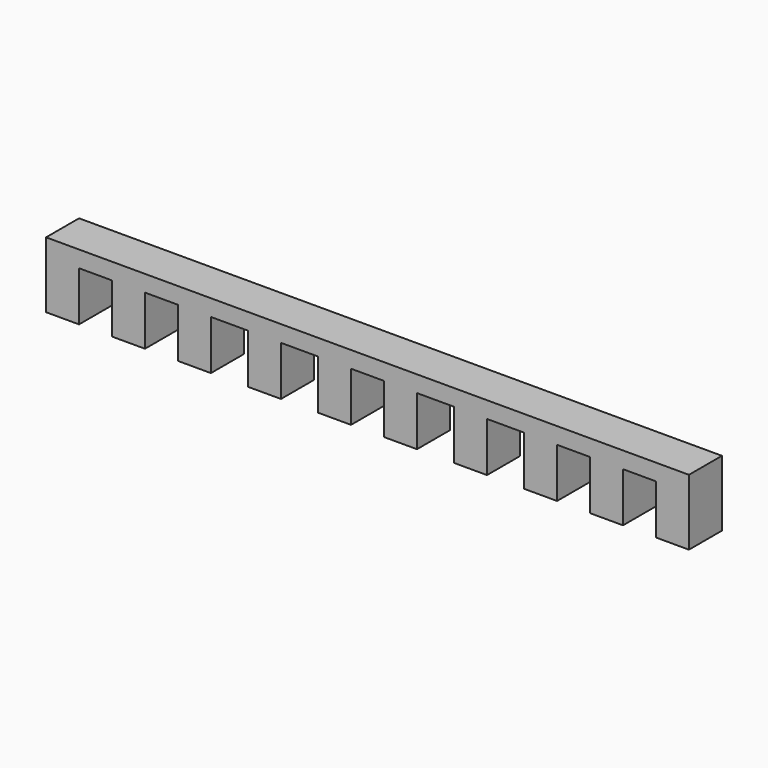
from build123d import *

# Parameters (mm, degrees)
F0_W     = 780
F0_H     = 80
F1_DEPTH = 50
F2_W     = 40
F2_H     = 60
F2_W_2   = 45
F3_DEPTH = 50


with BuildPart() as f1:
    # F0 (on Front) → F1 (new body)
    with BuildSketch(Plane.XZ):
        with Locations((-14.780855, -40)):
            Rectangle(F0_W, F0_H)
    extrude(amount=F1_DEPTH)

    # F2 (on face) → F3 (cut)
    with BuildSketch(Plane.XZ.offset(50)):
        with Locations((-344.780855, -50)):
            Rectangle(F2_W, F2_H)
        with Locations((-264.780855, -50)):
            Rectangle(F2_W, F2_H)
        with Locations((-182.280855, -50)):
            Rectangle(F2_W_2, F2_H)
        with Locations((-97.280855, -50)):
            Rectangle(F2_W_2, F2_H)
        with Locations((-14.780855, -50)):
            Rectangle(F2_W, F2_H)
        with Locations((67.719145, -50)):
            Rectangle(F2_W_2, F2_H)
        with Locations((152.719145, -50)):
            Rectangle(F2_W_2, F2_H)
        with Locations((235.219145, -50)):
            Rectangle(F2_W, F2_H)
        with Locations((315.219145, -50)):
            Rectangle(F2_W, F2_H)
    extrude(amount=-F3_DEPTH, mode=Mode.SUBTRACT)


solid = f1.part
